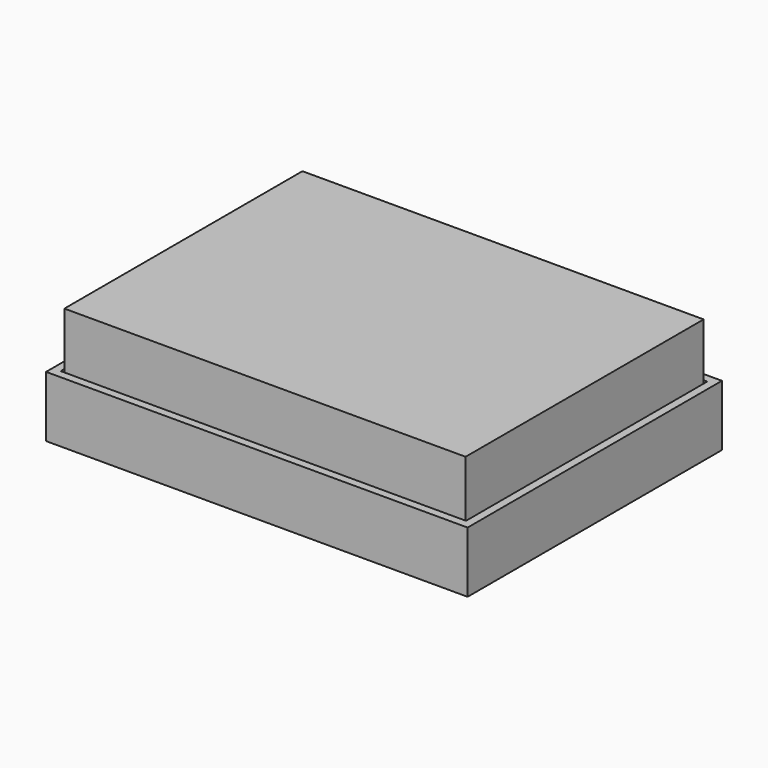
from build123d import *

# Parameters (mm, degrees)
CYLINDER001_R     = 1
CYLINDER001_DEPTH = 7
CYLINDER_R        = 3
CYLINDER_DEPTH    = 7
BOX009_W          = 2
BOX009_H          = 10
BOX009_DEPTH      = 5.8
BOX004_W          = 16.1
BOX004_H          = 16.1
BOX004_DEPTH      = 2
BOX008_W          = 71.6
BOX008_H          = 25.1
BOX008_DEPTH      = 2
CYLINDER002_R     = 4
CYLINDER002_DEPTH = 2
BOX001_W          = 99.7
BOX001_H          = 74.2
BOX001_DEPTH      = 15
BOX_W             = 103.7
BOX_H             = 78.2
BOX_DEPTH         = 15
BOX005_W          = 3
BOX005_H          = 1.6
BOX005_DEPTH      = 10
BOX006_W          = 1.6
BOX006_H          = 3
BOX006_DEPTH      = 10
BOX007_W          = 1.6
BOX007_H          = 3
BOX007_DEPTH      = 10
BOX003_W          = 12.9
BOX003_H          = 12.9
BOX003_DEPTH      = 25
BOX002_W          = 16.1
BOX002_H          = 16.1
BOX002_DEPTH      = 25
CHAMFER_SIZE      = 1
BOX014_W          = 2
BOX014_H          = 10
BOX014_DEPTH      = 5.8
BOX011_W          = 94.7
BOX011_H          = 69.2
BOX011_DEPTH      = 16
BOX010_W          = 98.7
BOX010_H          = 73.2
BOX010_DEPTH      = 18
BOX013_W          = 52
BOX013_H          = 33.8
BOX013_DEPTH      = 5
BOX012_W          = 56
BOX012_H          = 37.8
BOX012_DEPTH      = 7
BOX015_W          = 98.7
BOX015_H          = 73.2
BOX015_DEPTH      = 1.5


with BuildPart() as supporthole001:
    # Cylinder001 → Cylinder001 (new body)
    with BuildSketch(Plane.XY):
        Circle(CYLINDER001_R)
    extrude(amount=CYLINDER001_DEPTH)


with BuildPart() as supportext001:
    # Cylinder → Cylinder (new body)
    with BuildSketch(Plane.XY):
        Circle(CYLINDER_R)
    extrude(amount=CYLINDER_DEPTH)


with BuildPart() as support001:
    # Cut base: copy of SupportExt001
    add(supportext001.part)

    # Cut: cut SupportHole001
    add(supporthole001.part, mode=Mode.SUBTRACT)


with BuildPart() as support001_1:
    # Cut placement: moved
    add(support001.part.moved(Location((3.5, 3.5, 2))))


with BuildPart() as support002:
    # Cut001 base: copy of SupportExt001
    add(supportext001.part)

    # Cut001: cut SupportHole001
    add(supporthole001.part, mode=Mode.SUBTRACT)


with BuildPart() as support002_1:
    # Cut001 placement: moved
    add(support002.part.moved(Location((3.5, 69.7, 2))))


with BuildPart() as support003:
    # Cut002 base: copy of SupportExt001
    add(supportext001.part)

    # Cut002: cut SupportHole001
    add(supporthole001.part, mode=Mode.SUBTRACT)


with BuildPart() as support003_1:
    # Cut002 placement: moved
    add(support003.part.moved(Location((95.2, 3.5, 2))))


with BuildPart() as support004:
    # Cut003 base: copy of SupportExt001
    add(supportext001.part)

    # Cut003: cut SupportHole001
    add(supporthole001.part, mode=Mode.SUBTRACT)


with BuildPart() as support004_1:
    # Cut003 placement: moved
    add(support004.part.moved(Location((95.2, 69.7, 2))))


with BuildPart() as usbhole:
    # Box009 → Box009 (new body)
    with BuildSketch(Plane(origin=(-2.5, 38.2, 9.2), x_dir=(1, 0, 0), z_dir=(0, 0, 1))):
        with Locations((1, 5)):
            Rectangle(BOX009_W, BOX009_H)
    extrude(amount=BOX009_DEPTH)


with BuildPart() as hole:
    # Box004 → Box004 (new body)
    with BuildSketch(Plane(origin=(47.1, 3.8, 0), x_dir=(1, 0, 0), z_dir=(0, 0, 1))):
        with Locations((8.05, 8.05)):
            Rectangle(BOX004_W, BOX004_H)
    extrude(amount=BOX004_DEPTH)


with BuildPart() as screen:
    # Box008 → Box008 (new body)
    with BuildSketch(Plane(origin=(13.4, 40.5, 0), x_dir=(1, 0, 0), z_dir=(0, 0, 1))):
        with Locations((35.8, 12.55)):
            Rectangle(BOX008_W, BOX008_H)
    extrude(amount=BOX008_DEPTH)


with BuildPart() as holesinfront:
    # Cylinder002 → Cylinder002 (new body)
    with BuildSketch(Plane(origin=(13.2, 12.8, 0), x_dir=(1, 0, 0), z_dir=(0, 0, 1))):
        Circle(CYLINDER002_R)
    extrude(amount=CYLINDER002_DEPTH)

    # Fusion001: union hole, screen
    add(hole.part)
    add(screen.part)


with BuildPart() as boxcut:
    # Box001 → Box001 (new body)
    with BuildSketch(Plane(origin=(2, 2, 2), x_dir=(1, 0, 0), z_dir=(0, 0, 1))):
        with Locations((49.85, 37.1)):
            Rectangle(BOX001_W, BOX001_H)
    extrude(amount=BOX001_DEPTH)


with BuildPart() as finalbox:
    # Box → Box (new body)
    with BuildSketch(Plane.XY):
        with Locations((51.85, 39.1)):
            Rectangle(BOX_W, BOX_H)
    extrude(amount=BOX_DEPTH)

    # Cut004: cut BoxCut
    add(boxcut.part, mode=Mode.SUBTRACT)


with BuildPart() as finalbox_1:
    # Cut004 placement: moved
    add(finalbox.part.moved(Location((-2.5, -2.5, 0))))

    # Cut007: cut HolesInFront
    add(holesinfront.part, mode=Mode.SUBTRACT)

    # Cut008: cut usbHole
    add(usbhole.part, mode=Mode.SUBTRACT)


with BuildPart() as window1:
    # Box005 → Box005 (new body)
    with BuildSketch(Plane(origin=(6.55, 14.5, 10.3), x_dir=(1, 0, 0), z_dir=(0, 0, 1))):
        with Locations((1.5, 0.8)):
            Rectangle(BOX005_W, BOX005_H)
    extrude(amount=BOX005_DEPTH)


with BuildPart() as window2:
    # Box006 → Box006 (new body)
    with BuildSketch(Plane(origin=(0, 6.55, 10.3), x_dir=(1, 0, 0), z_dir=(0, 0, 1))):
        with Locations((0.8, 1.5)):
            Rectangle(BOX006_W, BOX006_H)
    extrude(amount=BOX006_DEPTH)


with BuildPart() as windows:
    # Box007 → Box007 (new body)
    with BuildSketch(Plane(origin=(14.5, 6.55, 10.3), x_dir=(1, 0, 0), z_dir=(0, 0, 1))):
        with Locations((0.8, 1.5)):
            Rectangle(BOX007_W, BOX007_H)
    extrude(amount=BOX007_DEPTH)

    # Fusion: union Window1, Window2
    add(window1.part)
    add(window2.part)


with BuildPart() as holecut:
    # Box003 → Box003 (new body)
    with BuildSketch(Plane(origin=(1.6, 1.6, 0), x_dir=(1, 0, 0), z_dir=(0, 0, 1))):
        with Locations((6.45, 6.45)):
            Rectangle(BOX003_W, BOX003_H)
    extrude(amount=BOX003_DEPTH)


with BuildPart() as chamfer_body:
    # Box002 → Box002 (new body)
    with BuildSketch(Plane.XY):
        with Locations((8.05, 8.05)):
            Rectangle(BOX002_W, BOX002_H)
    extrude(amount=BOX002_DEPTH)

    # Cut005: cut HoleCut
    add(holecut.part, mode=Mode.SUBTRACT)

    # Cut006: cut Windows
    add(windows.part, mode=Mode.SUBTRACT)


with BuildPart() as chamfer_body_1:
    # Cut006 placement: moved
    add(chamfer_body.part.moved(Location((47.1, 3.8, 0))))

    # Chamfer
    chamfer_edges = [chamfer_body_1.edges().sort_by_distance(p)[0] for p in [
        (61.6, 11.85, 0),
        (55.15, 5.4, 0),
        (48.7, 11.85, 0),
        (55.15, 18.3, 0),
    ]]
    chamfer(chamfer_edges, length=CHAMFER_SIZE)


with BuildPart() as usbholebottom:
    # Box014 → Box014 (new body)
    with BuildSketch(Plane(origin=(0, 38.2, 0), x_dir=(1, 0, 0), z_dir=(0, 0, 1))):
        with Locations((1, 5)):
            Rectangle(BOX014_W, BOX014_H)
    extrude(amount=BOX014_DEPTH)


with BuildPart() as bottominternal:
    # Box011 → Box011 (new body)
    with BuildSketch(Plane(origin=(2, 2, 0), x_dir=(1, 0, 0), z_dir=(0, 0, 1))):
        with Locations((47.35, 34.6)):
            Rectangle(BOX011_W, BOX011_H)
    extrude(amount=BOX011_DEPTH)


with BuildPart() as bottom:
    # Box010 → Box010 (new body)
    with BuildSketch(Plane.XY):
        with Locations((49.35, 36.6)):
            Rectangle(BOX010_W, BOX010_H)
    extrude(amount=BOX010_DEPTH)

    # Cut009: cut bottomInternal
    add(bottominternal.part, mode=Mode.SUBTRACT)


with BuildPart() as batteryinternal:
    # Box013 → Box013 (new body)
    with BuildSketch(Plane(origin=(2, 2, 0), x_dir=(1, 0, 0), z_dir=(0, 0, 1))):
        with Locations((26, 16.9)):
            Rectangle(BOX013_W, BOX013_H)
    extrude(amount=BOX013_DEPTH)


with BuildPart() as bottomfinal:
    # Box012 → Box012 (new body)
    with BuildSketch(Plane.XY):
        with Locations((28, 18.9)):
            Rectangle(BOX012_W, BOX012_H)
    extrude(amount=BOX012_DEPTH)

    # Cut010: cut batteryInternal
    add(batteryinternal.part, mode=Mode.SUBTRACT)


with BuildPart() as bottomfinal_1:
    # Cut010 placement: moved
    add(bottomfinal.part.moved(Location((42.7, 35.4, 11))))

    # Fusion002: union bottom
    add(bottom.part)

    # Cut011: cut usbHoleBottom
    add(usbholebottom.part, mode=Mode.SUBTRACT)


with BuildPart() as bottomfinal_2:
    # Cut011 placement: moved
    add(bottomfinal_1.part.moved(Location((0, 0, 10.5))))


with BuildPart() as pcb:
    # Box015 → Box015 (new body)
    with BuildSketch(Plane.XY.offset(9)):
        with Locations((49.35, 36.6)):
            Rectangle(BOX015_W, BOX015_H)
    extrude(amount=BOX015_DEPTH)


solid = Compound([support001_1.part, support002_1.part, support003_1.part, support004_1.part, finalbox_1.part, chamfer_body_1.part, bottomfinal_2.part, pcb.part])
